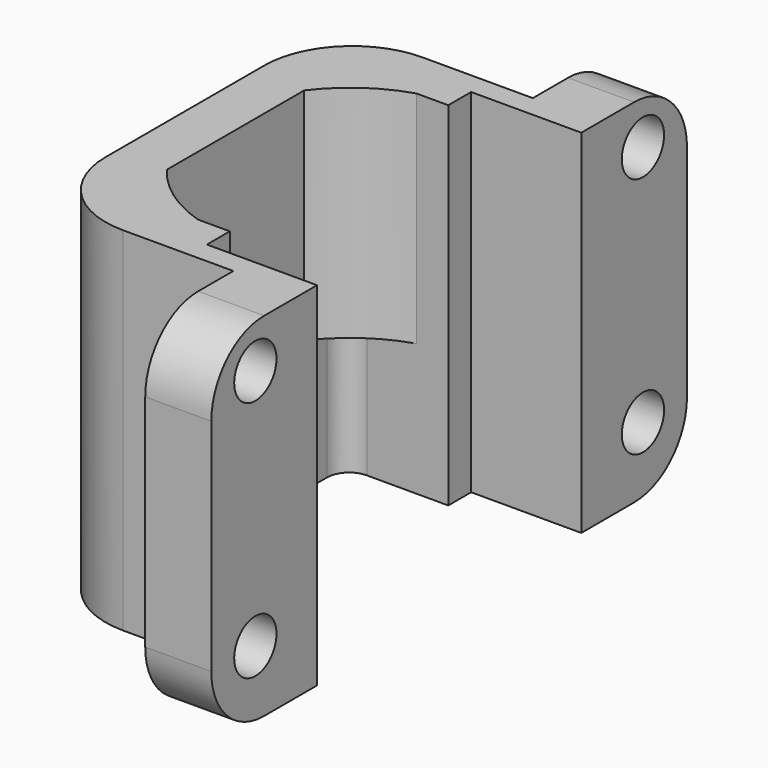
from build123d import *

# Parameters (mm, degrees)
CYLINDER1313_R            = 1.2
CYLINDER1313_DEPTH        = 11
CYLINDER1314_R            = 1.2
CYLINDER1314_DEPTH        = 11
CYLINDER1223_R            = 1.2
CYLINDER1223_DEPTH        = 11
CYLINDER1224_R            = 1.2
CYLINDER1224_DEPTH        = 11
BOX517_W                  = 10.4
BOX517_H                  = 12.4
BOX517_DEPTH              = 27
FILLET401_R               = 1
CYLINDER1219_R            = 8
CYLINDER1219_DEPTH        = 27
CYLINDER1221_R            = 6.5
CYLINDER1221_DEPTH        = 17
CYLINDER1220_R            = 8
CYLINDER1220_DEPTH        = 17
CYLINDER1222_R            = 8
CYLINDER1222_DEPTH        = 27
CUT014265_PLACEMENT_ANGLE = 180
BOX515_W                  = 6
BOX515_H                  = 15
BOX515_DEPTH              = 21
BOX516_W                  = 3
BOX516_H                  = 27
BOX516_DEPTH              = 16
BOX518_W                  = 12
BOX518_H                  = 17
BOX518_DEPTH              = 16
FILLET406_R               = 3
FILLET407_R               = 4


with BuildPart() as cylinder1313:
    # Cylinder1313 → Cylinder1313 (new body)
    with BuildSketch(Plane(origin=(439, 96, 121), x_dir=(0, 0, -1), z_dir=(1, 0, 0))):
        Circle(CYLINDER1313_R)
    extrude(amount=CYLINDER1313_DEPTH)


with BuildPart() as fusion248002050188:
    # Cylinder1314 → Cylinder1314 (new body)
    with BuildSketch(Plane(origin=(439, 74, 121), x_dir=(0, 0, -1), z_dir=(1, 0, 0))):
        Circle(CYLINDER1314_R)
    extrude(amount=CYLINDER1314_DEPTH)

    # Fusion248002050188: union Cylinder1313
    add(cylinder1313.part)


with BuildPart() as fusion248002050188_1:
    # Fusion248002050188 placement: moved
    add(fusion248002050188.part.moved(Location((0, 0, 7))))


with BuildPart() as cylinder1223:
    # Cylinder1223 → Cylinder1223 (new body)
    with BuildSketch(Plane(origin=(439, 96, 121), x_dir=(0, 0, -1), z_dir=(1, 0, 0))):
        Circle(CYLINDER1223_R)
    extrude(amount=CYLINDER1223_DEPTH)


with BuildPart() as fusion248002050134:
    # Cylinder1224 → Cylinder1224 (new body)
    with BuildSketch(Plane(origin=(439, 74, 121), x_dir=(0, 0, -1), z_dir=(1, 0, 0))):
        Circle(CYLINDER1224_R)
    extrude(amount=CYLINDER1224_DEPTH)

    # Fusion248002050134: union Cylinder1223
    add(cylinder1223.part)


with BuildPart() as fusion248002050134_1:
    # Fusion248002050134 placement: moved
    add(fusion248002050134.part.moved(Location((0, 0, -4))))


with BuildPart() as fillet401:
    # Box517 → Box517 (new body)
    with BuildSketch(Plane(origin=(-5.2, -6.2, 0), x_dir=(1, 0, 0), z_dir=(0, 0, 1))):
        with Locations((5.2, 6.2)):
            Rectangle(BOX517_W, BOX517_H)
    extrude(amount=BOX517_DEPTH)

    # Fillet401
    fillet401_edges = [fillet401.edges().sort_by_distance(p)[0] for p in [
        (-5.2, -6.2, 13.5),
        (-5.2, 6.2, 13.5),
        (5.2, -6.2, 13.5),
        (5.2, 6.2, 13.5),
    ]]
    fillet(fillet401_edges, radius=FILLET401_R)


with BuildPart() as cut014264:
    # Cylinder1219 → Cylinder1219 (new body)
    with BuildSketch(Plane.XY):
        Circle(CYLINDER1219_R)
    extrude(amount=CYLINDER1219_DEPTH)

    # Cut014264: cut Fillet401
    add(fillet401.part, mode=Mode.SUBTRACT)


with BuildPart() as cylinder1425:
    # Cylinder1221 → Cylinder1221 (new body)
    with BuildSketch(Plane.XY):
        Circle(CYLINDER1221_R)
    extrude(amount=CYLINDER1221_DEPTH)


with BuildPart() as fusion248002050131:
    # Cylinder1220 → Cylinder1220 (new body)
    with BuildSketch(Plane.XY):
        Circle(CYLINDER1220_R)
    extrude(amount=CYLINDER1220_DEPTH)

    # Cut014263: cut Cylinder1425
    add(cylinder1425.part, mode=Mode.SUBTRACT)

    # Fusion248002050131: union Cut014264
    add(cut014264.part)


with BuildPart() as bucket_opening_motor002:
    # Cylinder1222 → Cylinder1222 (new body)
    with BuildSketch(Plane.XY):
        Circle(CYLINDER1222_R)
    extrude(amount=CYLINDER1222_DEPTH)

    # Cut014265: cut Fusion248002050131
    add(fusion248002050131.part, mode=Mode.SUBTRACT)


with BuildPart() as bucket_opening_motor002_1:
    # Cut014265 placement: moved
    add(bucket_opening_motor002.part.moved(Location((441.5, 85, 137))).rotate(Axis((441.5, 85, 137), (1, 0, 0)), CUT014265_PLACEMENT_ANGLE))


with BuildPart() as fusion248002050132:
    # Box515 → Box515 (new body)
    with BuildSketch(Plane(origin=(441, 77.5, 109), x_dir=(1, 0, 0), z_dir=(0, 0, 1))):
        with Locations((3, 7.5)):
            Rectangle(BOX515_W, BOX515_H)
    extrude(amount=BOX515_DEPTH)

    # Fusion248002050132: union bucket-opening-motor002
    add(bucket_opening_motor002_1.part)


with BuildPart() as cube742:
    # Box516 → Box516 (new body)
    with BuildSketch(Plane(origin=(443, 71.5, 114), x_dir=(1, 0, 0), z_dir=(0, 0, 1))):
        with Locations((1.5, 13.5)):
            Rectangle(BOX516_W, BOX516_H)
    extrude(amount=BOX516_DEPTH)


with BuildPart() as bucket_opening_motor_holder:
    # Box518 → Box518 (new body)
    with BuildSketch(Plane(origin=(434, 76.5, 114), x_dir=(1, 0, 0), z_dir=(0, 0, 1))):
        with Locations((6, 8.5)):
            Rectangle(BOX518_W, BOX518_H)
    extrude(amount=BOX518_DEPTH)

    # Fusion248002050162: union Cube742
    add(cube742.part)

    # Fillet406
    fillet406_edges = [bucket_opening_motor_holder.edges().sort_by_distance(p)[0] for p in [
        (444.5, 71.5, 114),
        (444.5, 71.5, 130),
        (444.5, 98.5, 114),
        (444.5, 98.5, 130),
    ]]
    fillet(fillet406_edges, radius=FILLET406_R)

    # Fillet407
    fillet407_edges = [bucket_opening_motor_holder.edges().sort_by_distance(p)[0] for p in [
        (434, 76.5, 122),
        (434, 93.5, 122),
    ]]
    fillet(fillet407_edges, radius=FILLET407_R)

    # Cut014290: cut Fusion248002050132
    add(fusion248002050132.part, mode=Mode.SUBTRACT)

    # Cut014291: cut Fusion248002050134
    add(fusion248002050134_1.part, mode=Mode.SUBTRACT)

    # Cut014317: cut Fusion248002050188
    add(fusion248002050188_1.part, mode=Mode.SUBTRACT)


solid = bucket_opening_motor_holder.part
